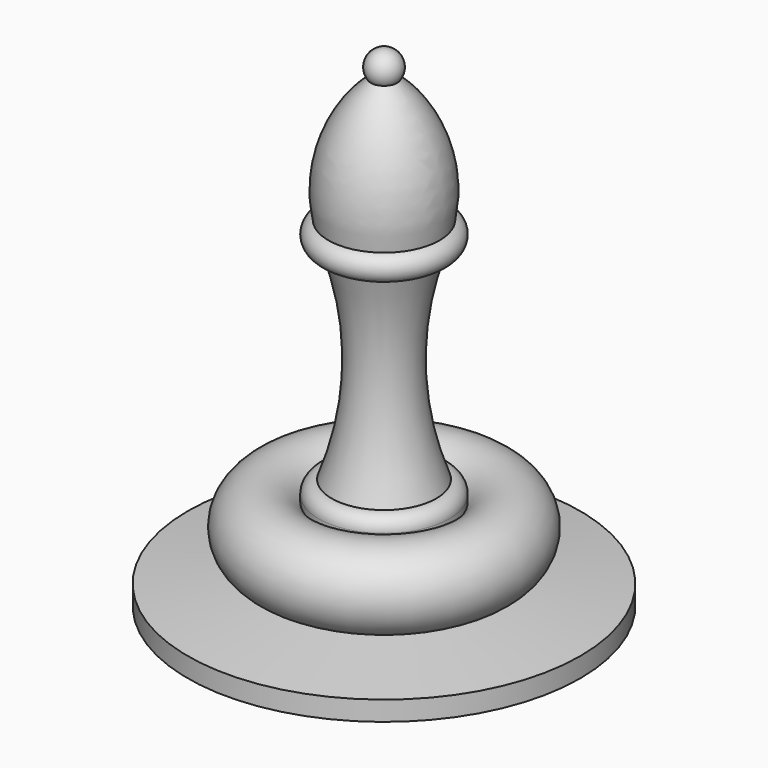
from build123d import *


with BuildPart() as f1:
    # F0 (on Front) → F1 (revolve)
    with BuildSketch(Plane.XZ):
        with BuildLine():
            ThreePointArc((8.5, -23.06), (7.8239155169, -12.6522218856), (2, -4))
            ThreePointArc((2, -4), (2.2360679775, -1.3819660113), (0, 0))
            Line((0, 0), (0, -75))
            Line((0, -75), (30, -75))
            Line((30, -75), (30, -72))
            Line((30, -72), (15.6363777571, -70.3101620891))
            ThreePointArc((15.6363777571, -70.3101620891), (20.1301045264, -61.2291328883), (10, -61.03))
            Line((10, -61.03), (10, -60.03))
            ThreePointArc((10, -60.03), (9.4421551186, -58.5657318528), (8, -57.9529833462))
            ThreePointArc((8, -57.9529833462), (4.9922497524, -42.4874345107), (7.5, -26.9329833462))
            Line((7.5, -26.9329833462), (8.5, -26.9329833462))
            ThreePointArc((8.5, -26.9329833462), (10, -24.9964916731), (8.5, -23.06))
        make_face()
        with BuildLine():
            Line((13, -70), (15.6363777571, -70.3101620891))
            ThreePointArc((15.6363777571, -70.3101620891), (14.3008207379, -70.3027102402), (13, -70))
        make_face(mode=Mode.SUBTRACT)
        with BuildLine():
            ThreePointArc((13, -70), (14.3008207379, -70.3027102402), (15.6363777571, -70.3101620891))
            Line((15.6363777571, -70.3101620891), (13, -70))
        make_face()
    revolve(axis=Axis((0, 0, -37.5), (0, 0, 1)))


solid = f1.part
